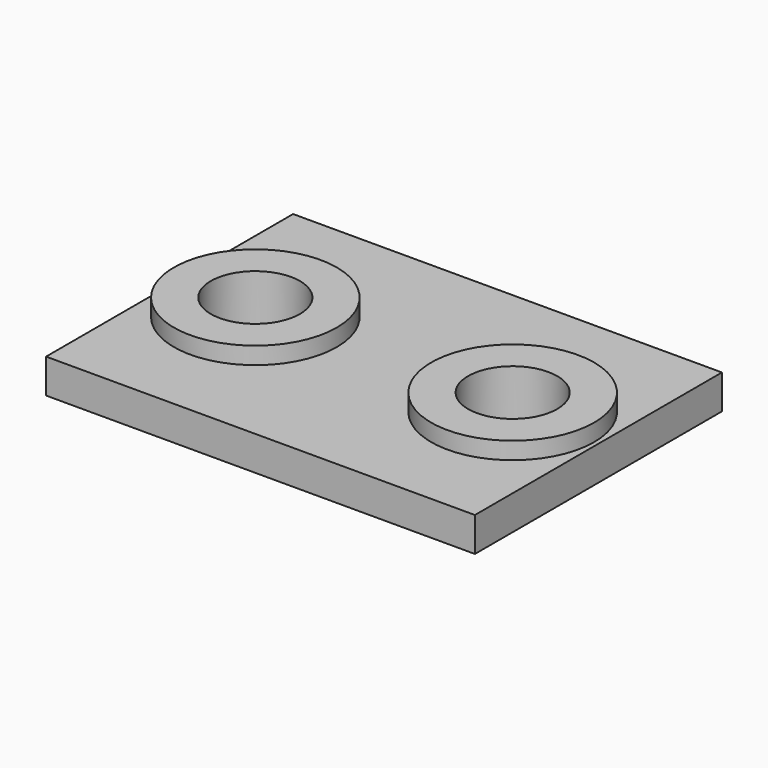
from build123d import *

# Parameters (mm, degrees)
SKETCH_W      = 25
SKETCH_H      = 18
SKETCH_R      = 2.6
PAD_DEPTH     = 2
SKETCH001_R   = 4.75
SKETCH001_R_2 = 2.6
PAD001_DEPTH  = 1


with BuildPart() as part:
    # Sketch → Pad (new body)
    with BuildSketch(Plane.XY):
        Rectangle(SKETCH_W, SKETCH_H)
        with Locations((-7.5, 0)):
            Circle(SKETCH_R, mode=Mode.SUBTRACT)
        with Locations((7.5, 0)):
            Circle(SKETCH_R, mode=Mode.SUBTRACT)
    extrude(amount=PAD_DEPTH)

    # Sketch001 (on Face8 of Pad) → Pad001 (join)
    with BuildSketch(Plane.XY.offset(2)):
        with Locations((-7.5, 0)):
            Circle(SKETCH001_R)
        with Locations((-7.5, 0)):
            Circle(SKETCH001_R_2, mode=Mode.SUBTRACT)
        with Locations((7.5, 0)):
            Circle(SKETCH001_R)
        with Locations((7.5, 0)):
            Circle(SKETCH001_R_2, mode=Mode.SUBTRACT)
    extrude(amount=PAD001_DEPTH)


solid = part.part
